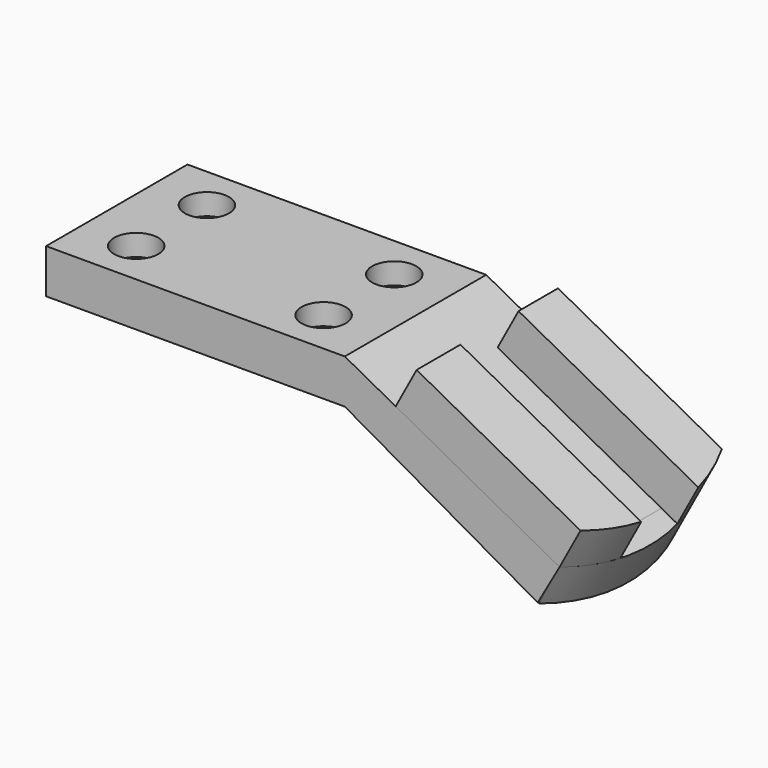
from build123d import *

# Parameters (mm, degrees)
F1_DEPTH  = 50.8
F2_R      = 6.35
F3_DEPTH  = 6.096
F4_R      = 3.937
F5_DEPTH  = 44.2492978838
F7_DEPTH  = 12.7
F8_W      = 53.483916714
F8_H      = 50.8
F9_DEPTH  = 12.7
F10_W     = 63.1353035569
F10_H     = 20.8556866273
F11_DEPTH = 25.4


with BuildPart() as f1:
    # F0 (on Front) → F1 (new body)
    with BuildSketch(Plane.XZ):
        Polygon((0, 12.7), (0, 0), (85.852, 0), (141.3115113905, -31.5482978838), (147.5910292814, -20.5093824), (85.852, 12.7), align=None)
    extrude(amount=F1_DEPTH)

    # F2 (on face) → F3 (cut)
    with BuildSketch(Plane.XY.offset(12.7)):
        with Locations((15.748, -12.7)):
            Circle(F2_R)
        with Locations((69.596, -12.7)):
            Circle(F2_R)
        with Locations((15.748, -38.1)):
            Circle(F2_R)
        with Locations((69.596, -38.1)):
            Circle(F2_R)
    extrude(amount=-F3_DEPTH, mode=Mode.SUBTRACT)

    # F4 (on face) → F5 (cut, through all)
    with BuildSketch(Plane.XY.offset(12.7)):
        with Locations((15.748, -12.7)):
            Circle(F4_R)
        with Locations((69.596, -12.7)):
            Circle(F4_R)
        with Locations((69.596, -38.1)):
            Circle(F4_R)
        with Locations((15.748, -38.1)):
            Circle(F4_R)
    extrude(amount=-F5_DEPTH, mode=Mode.SUBTRACT)


with BuildPart() as f7:
    # F6 (on face) → F7 (new body)
    with BuildSketch(Plane(origin=(24.5640985802, 0, 45.6667210261), x_dir=(0.8806776972, 0, -0.473715942), z_dir=(0.473715942, 0, 0.8806776972))):
        with BuildLine():
            Line((139.6957491924, 0), (139.6957491924, -50.8))
            ThreePointArc((139.6957491924, -50.8), (146.0627308377, -25.4), (139.6957491924, 0))
        make_face()
    extrude(amount=-F7_DEPTH)


with BuildPart() as f9:
    # F8 (on face) → F9 (new body)
    with BuildSketch(Plane(origin=(24.5640985802, 0, 45.6667210261), x_dir=(0.8806776972, 0, -0.473715942), z_dir=(0.473715942, 0, 0.8806776972))):
        with Locations((112.9537908354, -25.4)):
            Rectangle(F8_W, F8_H)
        with BuildLine():
            Line((139.6957491924, 0), (139.6957491924, -50.8))
            ThreePointArc((139.6957491924, -50.8), (146.0627308377, -25.4), (139.6957491924, 0))
        make_face()
    extrude(amount=F9_DEPTH)

    # F10 (on face) → F11 (cut)
    with BuildSketch(Plane(origin=(30.5802910439, 0, 56.85132778), x_dir=(0.8806776972, 0, -0.473715942), z_dir=(0.473715942, 0, 0.8806776972))):
        with Locations((117.7794842569, -24.6241566863)):
            Rectangle(F10_W, F10_H)
    extrude(amount=-F11_DEPTH, mode=Mode.SUBTRACT)


solid = Compound([f1.part, f7.part, f9.part])
